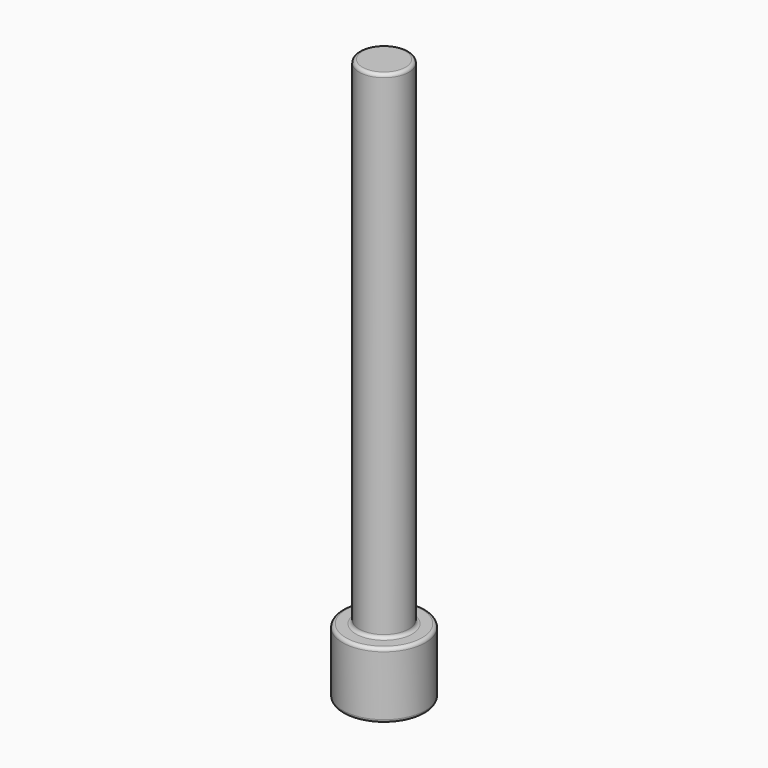
from build123d import *

# Parameters (mm, degrees)
F0_R     = 2.5
F1_DEPTH = 4
F2_DEPTH = 3.5
F3_R     = 1.5
F4_DEPTH = 30
F5_R     = 0.2


with BuildPart() as f1:
    # F0 (on Top) → F1 (new body)
    with BuildSketch(Plane.XY):
        Circle(F0_R)
        Polygon((-1.3528307096, 1.0815956135), (0.2602739232, 1.7123835683), (1.6131046327, 0.6307879547), (1.3528307096, -1.0815956135), (-0.2602739232, -1.7123835683), (-1.6131046327, -0.6307879547), align=None, mode=Mode.SUBTRACT)
        Polygon((1.6131046327, 0.6307879547), (0.2602739232, 1.7123835683), (-1.3528307096, 1.0815956135), (-1.6131046327, -0.6307879547), (-0.2602739232, -1.7123835683), (1.3528307096, -1.0815956135), align=None)
    extrude(amount=F1_DEPTH)

    # F0 (on Top) → F2 (cut)
    with BuildSketch(Plane.XY):
        Polygon((1.6131046327, 0.6307879547), (0.2602739232, 1.7123835683), (-1.3528307096, 1.0815956135), (-1.6131046327, -0.6307879547), (-0.2602739232, -1.7123835683), (1.3528307096, -1.0815956135), align=None)
    extrude(amount=F2_DEPTH, mode=Mode.SUBTRACT)

    # F3 (on face) → F4 (join)
    with BuildSketch(Plane.XY.offset(4)):
        Circle(F3_R)
    extrude(amount=F4_DEPTH)

    # F5
    f5_edges = [f1.edges().sort_by_distance(p)[0] for p in [
        (-1.5, 0, 4),
        (-1.5, 0, 34),
        (2.5, 0, 2),
        (-2.5, 0, 0),
        (-2.5, 0, 4),
        (-0.546278, 1.39699, 0),
        (0.546278, -1.39699, 3.5),
        (1.482968, -0.225404, 3.5),
        (0.936689, 1.171586, 3.5),
        (-0.546278, 1.39699, 3.5),
        (-1.482968, 0.225404, 3.5),
        (-0.936689, -1.171586, 3.5),
        (0.546278, -1.39699, 0),
        (-0.936689, -1.171586, 0),
        (-1.482968, 0.225404, 0),
        (0.936689, 1.171586, 0),
        (1.482968, -0.225404, 0),
    ]]
    fillet(f5_edges, radius=F5_R)


solid = f1.part
